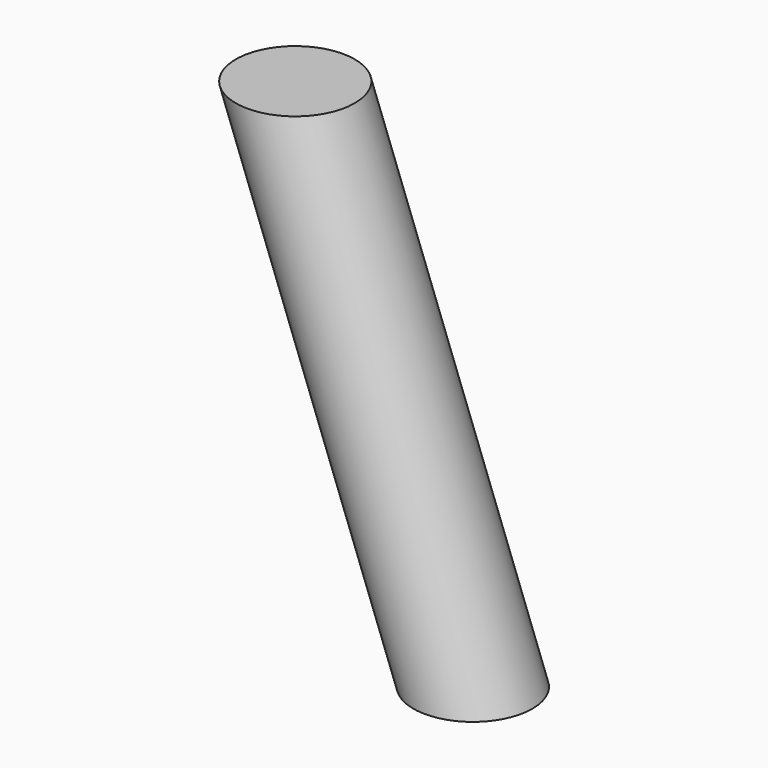
from build123d import *

# Parameters (mm, degrees)
F2_R = 12.7


with BuildPart() as f3:
    # F3: sweep along a path in F1
    with BuildLine(Plane.XZ) as f3_path:
        Line((75.906619, 0), (37.981728, 101.502768))
    # F2 (on Top) → F3 (sweep)
    with BuildSketch(Plane.XY):
        with Locations((38.267195, 0)):
            Circle(F2_R)
    sweep(path=f3_path.line)


solid = f3.part
